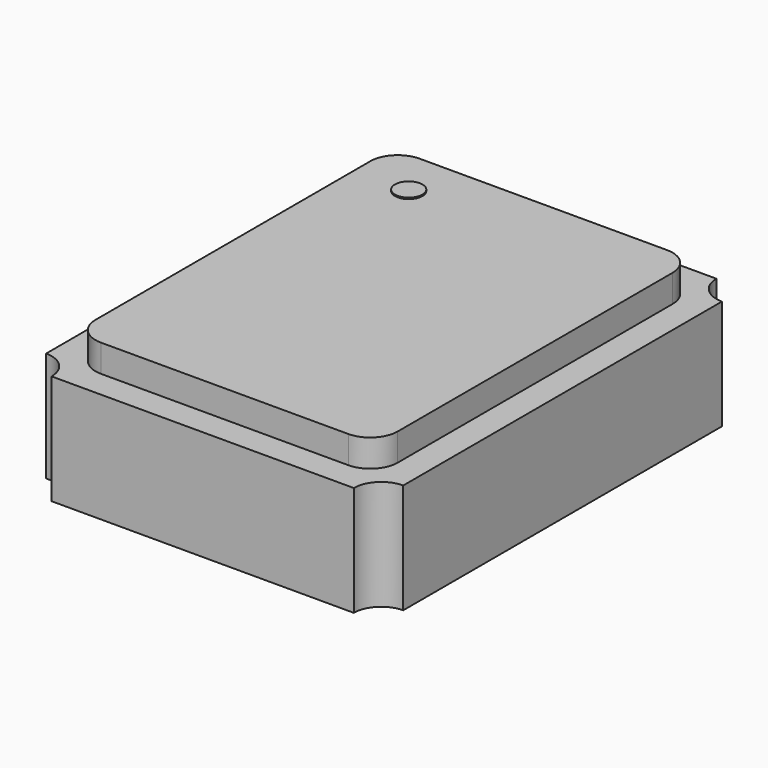
from build123d import *

# Parameters (mm, degrees)
BOX001_W          = 2.2
BOX001_H          = 2.9
BOX001_DEPTH      = 0.2
FILLET_R          = 0.2
CYLINDER004_R     = 0.1
CYLINDER004_DEPTH = 0.01
CYLINDER001_R     = 0.2
CYLINDER001_DEPTH = 3
CYLINDER002_R     = 0.2
CYLINDER002_DEPTH = 3
CYLINDER003_R     = 0.2
CYLINDER003_DEPTH = 3
CYLINDER_R        = 0.2
CYLINDER_DEPTH    = 3
BOX_W             = 2.6
BOX_H             = 3.3
BOX_DEPTH         = 0.8


with BuildPart() as fillet_body:
    # Box001 → Box001 (new body)
    with BuildSketch(Plane(origin=(-1.1, -1.45, 0.8), x_dir=(1, 0, 0), z_dir=(0, 0, 1))):
        with Locations((1.1, 1.45)):
            Rectangle(BOX001_W, BOX001_H)
    extrude(amount=BOX001_DEPTH)

    # Fillet
    fillet_edges = [fillet_body.edges().sort_by_distance(p)[0] for p in [
        (-1.1, -1.45, 0.9),
        (-1.1, 1.45, 0.9),
        (1.1, -1.45, 0.9),
        (1.1, 1.45, 0.9),
    ]]
    fillet(fillet_edges, radius=FILLET_R)


with BuildPart() as cylinder004:
    # Cylinder004 → Cylinder004 (new body)
    with BuildSketch(Plane(origin=(-0.7, 1.1, 1), x_dir=(1, 0, 0), z_dir=(0, 0, 1))):
        Circle(CYLINDER004_R)
    extrude(amount=CYLINDER004_DEPTH)


with BuildPart() as cylinder001:
    # Cylinder001 → Cylinder001 (new body)
    with BuildSketch(Plane(origin=(1.3, -1.65, -1), x_dir=(1, 0, 0), z_dir=(0, 0, 1))):
        Circle(CYLINDER001_R)
    extrude(amount=CYLINDER001_DEPTH)


with BuildPart() as cylinder002:
    # Cylinder002 → Cylinder002 (new body)
    with BuildSketch(Plane(origin=(-1.3, 1.65, -1), x_dir=(1, 0, 0), z_dir=(0, 0, 1))):
        Circle(CYLINDER002_R)
    extrude(amount=CYLINDER002_DEPTH)


with BuildPart() as cylinder003:
    # Cylinder003 → Cylinder003 (new body)
    with BuildSketch(Plane(origin=(1.3, 1.65, -1), x_dir=(1, 0, 0), z_dir=(0, 0, 1))):
        Circle(CYLINDER003_R)
    extrude(amount=CYLINDER003_DEPTH)


with BuildPart() as fusion:
    # Cylinder → Cylinder (new body)
    with BuildSketch(Plane(origin=(-1.3, -1.65, -1), x_dir=(1, 0, 0), z_dir=(0, 0, 1))):
        Circle(CYLINDER_R)
    extrude(amount=CYLINDER_DEPTH)

    # Fusion: union Cylinder001, Cylinder002, Cylinder003
    add(cylinder001.part)
    add(cylinder002.part)
    add(cylinder003.part)


with BuildPart() as fusion001:
    # Box → Box (new body)
    with BuildSketch(Plane(origin=(-1.3, -1.65, 0), x_dir=(1, 0, 0), z_dir=(0, 0, 1))):
        with Locations((1.3, 1.65)):
            Rectangle(BOX_W, BOX_H)
    extrude(amount=BOX_DEPTH)

    # Cut: cut Fusion
    add(fusion.part, mode=Mode.SUBTRACT)

    # Fusion001: union Fillet body, Cylinder004
    add(fillet_body.part)
    add(cylinder004.part)


solid = fusion001.part
